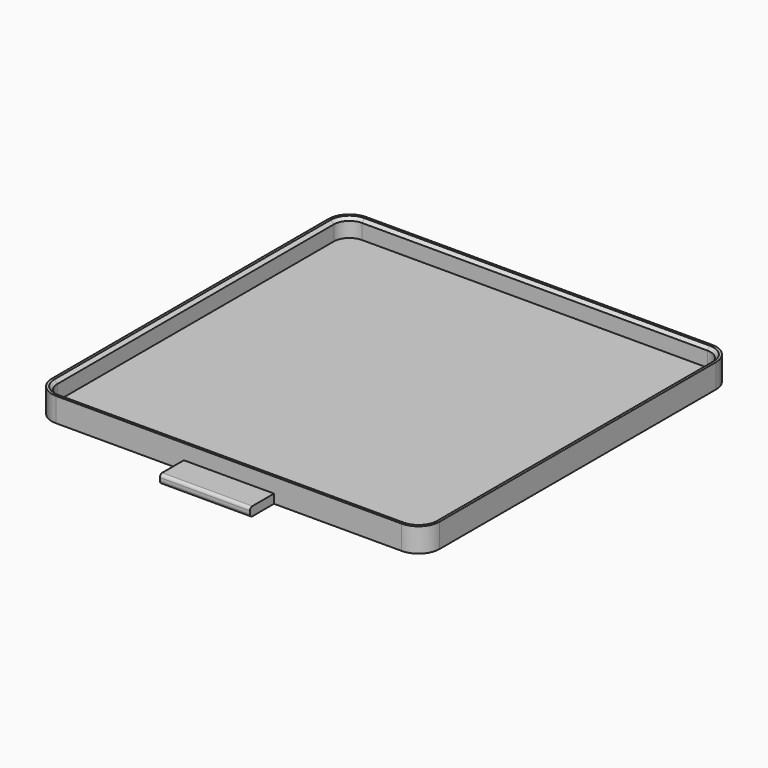
from build123d import *

# Parameters (mm, degrees)
F1_DEPTH = 8
F2_DEPTH = 2
F3_W     = 30
F3_H     = 3
F4_DEPTH = 10
F5_R     = 1
F6_SIZE  = 1


with BuildPart() as f1:
    # F0 (on Top) → F1 (new body)
    with BuildSketch(Plane.XY):
        with BuildLine():
            Line((-57.5, -64.5), (57.5, -64.5))
            ThreePointArc((57.5, -64.5), (62.449747, -62.449747), (64.5, -57.5))
            Line((64.5, -57.5), (64.5, 57.5))
            ThreePointArc((64.5, 57.5), (62.449747, 62.449747), (57.5, 64.5))
            Line((57.5, 64.5), (-57.5, 64.5))
            ThreePointArc((-57.5, 64.5), (-62.449747, 62.449747), (-64.5, 57.5))
            Line((-64.5, 57.5), (-64.5, -57.5))
            ThreePointArc((-64.5, -57.5), (-62.449747, -62.449747), (-57.5, -64.5))
        make_face()
        with BuildLine():
            ThreePointArc((-57.5, -62.7), (-61.176955, -61.176955), (-62.7, -57.5))
            Line((-62.7, -57.5), (-62.7, 57.5))
            ThreePointArc((-62.7, 57.5), (-61.176955, 61.176955), (-57.5, 62.7))
            Line((-57.5, 62.7), (57.5, 62.7))
            ThreePointArc((57.5, 62.7), (61.176955, 61.176955), (62.7, 57.5))
            Line((62.7, 57.5), (62.7, -57.5))
            ThreePointArc((62.7, -57.5), (61.176955, -61.176955), (57.5, -62.7))
            Line((57.5, -62.7), (-57.5, -62.7))
        make_face(mode=Mode.SUBTRACT)
    extrude(amount=F1_DEPTH)

    # F0 (on Top) → F2 (join)
    with BuildSketch(Plane.XY):
        with BuildLine():
            Line((-62.7, 57.5), (-62.7, -57.5))
            ThreePointArc((-62.7, -57.5), (-61.176955, -61.176955), (-57.5, -62.7))
            Line((-57.5, -62.7), (57.5, -62.7))
            ThreePointArc((57.5, -62.7), (61.176955, -61.176955), (62.7, -57.5))
            Line((62.7, -57.5), (62.7, 57.5))
            ThreePointArc((62.7, 57.5), (61.176955, 61.176955), (57.5, 62.7))
            Line((57.5, 62.7), (-57.5, 62.7))
            ThreePointArc((-57.5, 62.7), (-61.176955, 61.176955), (-62.7, 57.5))
        make_face()
    extrude(amount=F2_DEPTH)

    # F3 (on face) → F4 (join)
    with BuildSketch(Plane.XZ.offset(64.5)):
        with Locations((0, 1.5)):
            Rectangle(F3_W, F3_H)
    extrude(amount=F4_DEPTH)

    # F5
    f5_edges = [f1.edges().sort_by_distance(p)[0] for p in [
        (0, -74.5, 0),
        (0, -74.5, 3),
    ]]
    fillet(f5_edges, radius=F5_R)

    # F6
    f6_edges = [f1.edges().sort_by_distance(p)[0] for p in [
        (0, 62.7, 8),
        (-61.176955, 61.176955, 8),
        (-62.7, 0, 8),
        (-61.176955, -61.176955, 8),
        (0, -62.7, 8),
        (61.176955, -61.176955, 8),
        (62.7, 0, 8),
        (61.176955, 61.176955, 8),
    ]]
    chamfer(f6_edges, length=F6_SIZE)


solid = f1.part
